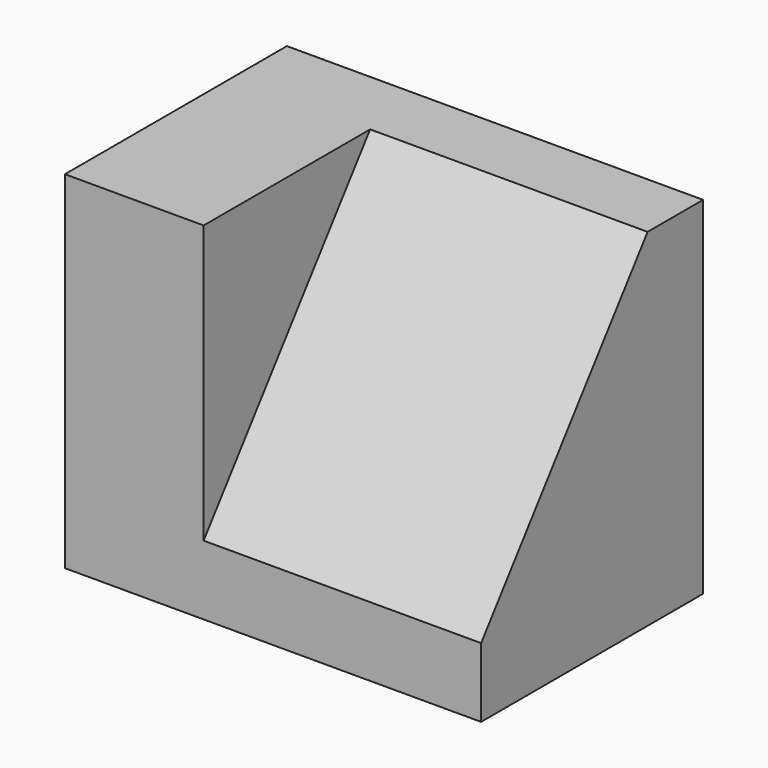
from build123d import *

# Parameters (mm, degrees)
F1_DEPTH = 38.1
F3_DEPTH = 25.4


with BuildPart() as f1:
    # F0 (on Right) → F1 (new body)
    with BuildSketch(Plane.YZ):
        Polygon((-22.806338, 0), (0, 0), (2.593662, 0), (2.593662, 31.75), (-22.806338, 31.75), align=None)
    extrude(amount=F1_DEPTH)

    # F2 (on face) → F3 (cut)
    with BuildSketch(Plane.YZ.offset(38.1)):
        Polygon((-3.756338, 31.75), (-22.806338, 31.75), (-22.806338, 6.35), align=None)
    extrude(amount=-F3_DEPTH, mode=Mode.SUBTRACT)


solid = f1.part
